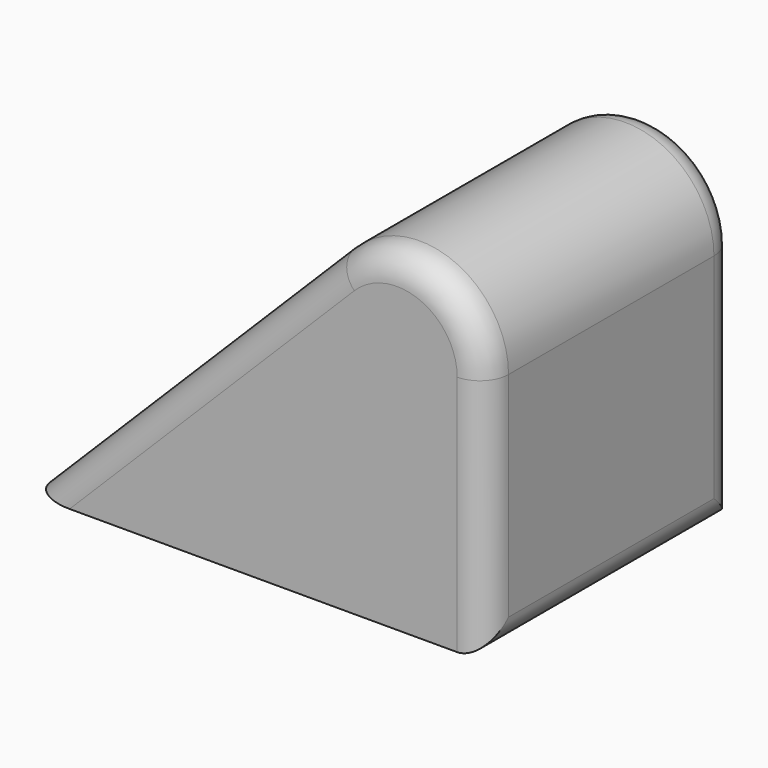
from build123d import *

# Parameters (mm, degrees)
F1_DEPTH = 55
F2_R     = 15.559852
F3_R     = 5


with BuildPart() as f1:
    # F0 (on Front) → F1 (new body)
    with BuildSketch(Plane.XZ):
        Polygon((-80, 0), (0, 0), (0, 80), align=None)
    extrude(amount=F1_DEPTH)

    # F2
    f2_edges = [f1.edges().sort_by_distance(p)[0] for p in [
        (0, -27.5, 80),
    ]]
    fillet(f2_edges, radius=F2_R)

    # F3
    f3_edges = [f1.edges().sort_by_distance(p)[0] for p in [
        (0, -55, 21.217598),
        (0, 0, 21.217598),
        (0, -27.5, 0),
    ]]
    fillet(f3_edges, radius=F3_R)


solid = f1.part
